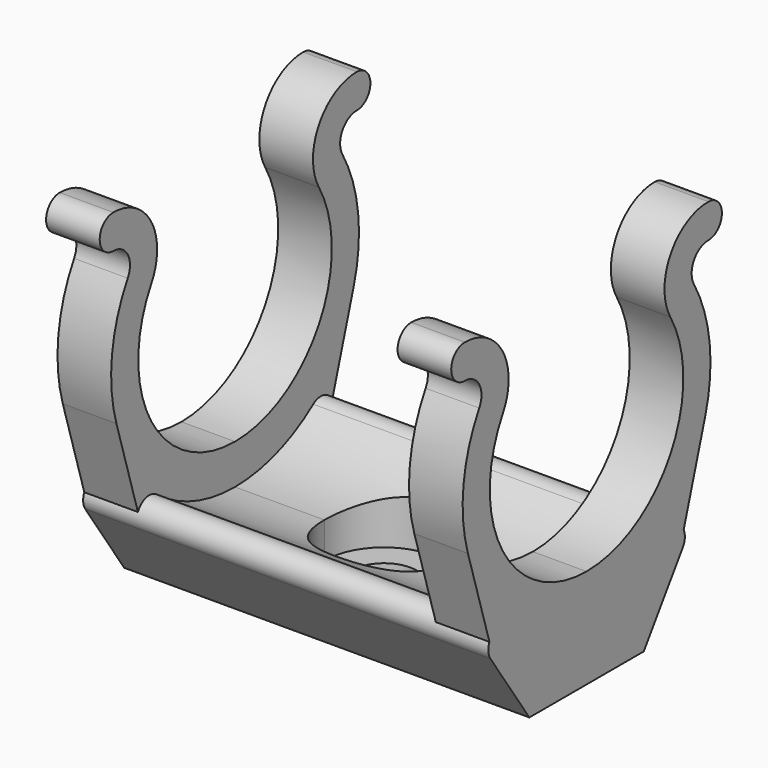
from build123d import *

# Parameters (mm, degrees)
PAD005_DEPTH                  = 17
PAD006_DEPTH                  = 4.5
SKETCH015_R                   = 2.75
POCKET005_DEPTH               = 93.84909
SKETCH016_R                   = 5
POCKET006_DEPTH               = 16.5
PAD005_MIRRORED002_2_DEPTH    = 17
PAD006_MIRRORED002_2_DEPTH    = 4.5
SKETCH015_MIRRORED002_2_R     = 2.75
POCKET005_MIRRORED002_2_DEPTH = 93.84909
SKETCH016_MIRRORED002_2_R     = 5
POCKET006_MIRRORED002_2_DEPTH = 16.5
SKETCH023_W                   = 1
SKETCH023_H                   = 10
POCKET011_DEPTH               = 0.2


with BuildPart() as part:
    # Sketch013 → Pad005 (new body)
    with BuildSketch(Plane.YZ):
        with BuildLine():
            ThreePointArc((0, -13.5), (4.330629, -12.786542), (8.203522, -10.721578))
            ThreePointArc((10.083563, -12.5), (9.900722, -10.810344), (8.203522, -10.721578))
            Line((6, -18.5), (10.083563, -12.5))
            Line((0, -18.5), (6, -18.5))
            Line((0, -13.5), (0, -18.5))
        make_face()
    pad005 = extrude(amount=PAD005_DEPTH)

    # Sketch014 → Pad006 (join)
    with BuildSketch(Plane.YZ.offset(17)):
        with BuildLine():
            ThreePointArc((0, -10.15), (8.790158, -5.075), (8.790158, 5.075))
            ThreePointArc((12.773875, 11.975), (8.790158, 9.675), (8.790158, 5.075))
            ThreePointArc((12.773875, 9.125), (14.198875, 10.55), (12.773875, 11.975))
            ThreePointArc((12.773875, 9.125), (11.25833, 8.25), (11.25833, 6.5))
            ThreePointArc((12.442941, -3.764734), (12.914285, 1.490384), (11.25833, 6.5))
            Line((12.442941, -3.764734), (9.8, -12.5))
            Line((9.8, -12.5), (0, -14.15))
            Line((0, -10.15), (0, -14.15))
        make_face()
    pad006 = extrude(amount=-PAD006_DEPTH)

    # Sketch015 → Pocket005 (cut, through all)
    with BuildSketch(Plane.XY):
        Circle(SKETCH015_R)
    pocket005 = extrude(amount=-POCKET005_DEPTH, mode=Mode.SUBTRACT)

    # Sketch016 → Pocket006 (cut)
    with BuildSketch(Plane.XY):
        Circle(SKETCH016_R)
    pocket006 = extrude(amount=-POCKET006_DEPTH, mode=Mode.SUBTRACT)

    # Sketch013 Mirrored002 2 → Pad005 Mirrored002 2 (add)
    with BuildSketch(Plane(origin=(0, 0, 0), x_dir=(0, -1, 0), z_dir=(-1, 0, 0))):
        with BuildLine():
            ThreePointArc((0, -13.5), (4.330629, -12.786542), (8.203522, -10.721578))
            ThreePointArc((10.083563, -12.5), (9.900722, -10.810344), (8.203522, -10.721578))
            Line((6, -18.5), (10.083563, -12.5))
            Line((0, -18.5), (6, -18.5))
            Line((0, -13.5), (0, -18.5))
        make_face()
    pad005_mirrored002_2 = extrude(amount=-PAD005_MIRRORED002_2_DEPTH)

    # Sketch014 Mirrored002 2 → Pad006 Mirrored002 2 (add)
    with BuildSketch(Plane(origin=(17, 0, 0), x_dir=(0, -1, 0), z_dir=(-1, 0, 0))):
        with BuildLine():
            ThreePointArc((0, -10.15), (8.790158, -5.075), (8.790158, 5.075))
            ThreePointArc((12.773875, 11.975), (8.790158, 9.675), (8.790158, 5.075))
            ThreePointArc((12.773875, 9.125), (14.198875, 10.55), (12.773875, 11.975))
            ThreePointArc((12.773875, 9.125), (11.25833, 8.25), (11.25833, 6.5))
            ThreePointArc((12.442941, -3.764734), (12.914285, 1.490384), (11.25833, 6.5))
            Line((12.442941, -3.764734), (9.8, -12.5))
            Line((9.8, -12.5), (0, -14.15))
            Line((0, -10.15), (0, -14.15))
        make_face()
    pad006_mirrored002_2 = extrude(amount=PAD006_MIRRORED002_2_DEPTH)

    # Sketch015 Mirrored002 2 → Pocket005 Mirrored002 2 (cut, through all)
    with BuildSketch(Plane(origin=(0, 0, 0), x_dir=(1, 0, 0), z_dir=(0, 0, -1))):
        Circle(SKETCH015_MIRRORED002_2_R)
    pocket005_mirrored002_2 = extrude(amount=POCKET005_MIRRORED002_2_DEPTH, mode=Mode.SUBTRACT)

    # Sketch016 Mirrored002 2 → Pocket006 Mirrored002 2 (cut)
    with BuildSketch(Plane(origin=(0, 0, 0), x_dir=(1, 0, 0), z_dir=(0, 0, -1))):
        Circle(SKETCH016_MIRRORED002_2_R)
    pocket006_mirrored002_2 = extrude(amount=POCKET006_MIRRORED002_2_DEPTH, mode=Mode.SUBTRACT)

    # Mirrored019: Pad005, Pad006, Pocket005, Pocket006, Pad005 Mirrored002 2, Pad006 Mirrored002 2, Pocket005 Mirrored002 2, Pocket006 Mirrored002 2 across YZ
    add(pad005.mirror(Plane.YZ))
    add(pad006.mirror(Plane.YZ))
    add(pocket005.mirror(Plane.YZ), mode=Mode.SUBTRACT)
    add(pocket006.mirror(Plane.YZ), mode=Mode.SUBTRACT)
    add(pad005_mirrored002_2.mirror(Plane.YZ))
    add(pad006_mirrored002_2.mirror(Plane.YZ))
    add(pocket005_mirrored002_2.mirror(Plane.YZ), mode=Mode.SUBTRACT)
    add(pocket006_mirrored002_2.mirror(Plane.YZ), mode=Mode.SUBTRACT)

    # Sketch023 → Pocket011 (cut)
    with BuildSketch(Plane.YZ.offset(29)):
        with Locations((0, -15)):
            Rectangle(SKETCH023_W, SKETCH023_H)
    pocket011 = extrude(amount=-POCKET011_DEPTH, mode=Mode.SUBTRACT)

    # Mirrored006: Pocket011 across YZ
    add(pocket011.mirror(Plane.YZ), mode=Mode.SUBTRACT)


solid = part.part
